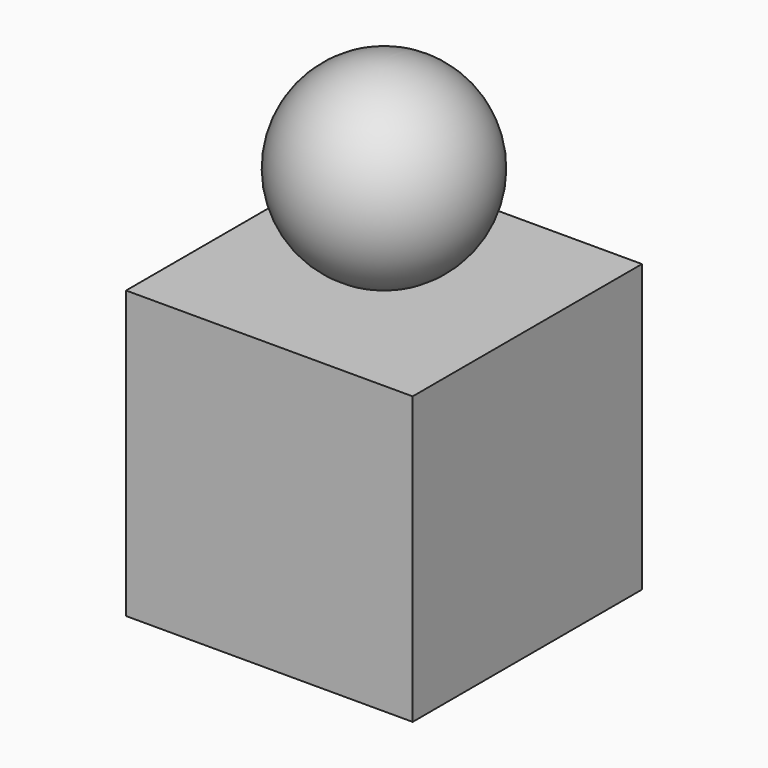
from build123d import *

# Parameters (mm, degrees)
F0_W     = 30
F0_H     = 30
F1_DEPTH = 30


with BuildPart() as f1:
    # F0 (on Top) → F1 (new body)
    with BuildSketch(Plane.XY):
        Rectangle(F0_W, F0_H)
    extrude(amount=F1_DEPTH)


with BuildPart() as f4:
    # F3 (on Right) → F4 (revolve)
    with BuildSketch(Plane.YZ):
        with BuildLine():
            Line((0, 50.040035), (0, 30.040035))
            ThreePointArc((0, 30.040035), (10, 40.040035), (0, 50.040035))
        make_face()
    revolve(axis=Axis((0, 0, 40.040035), (0, 0, -1)))


solid = Compound([f1.part, f4.part])
